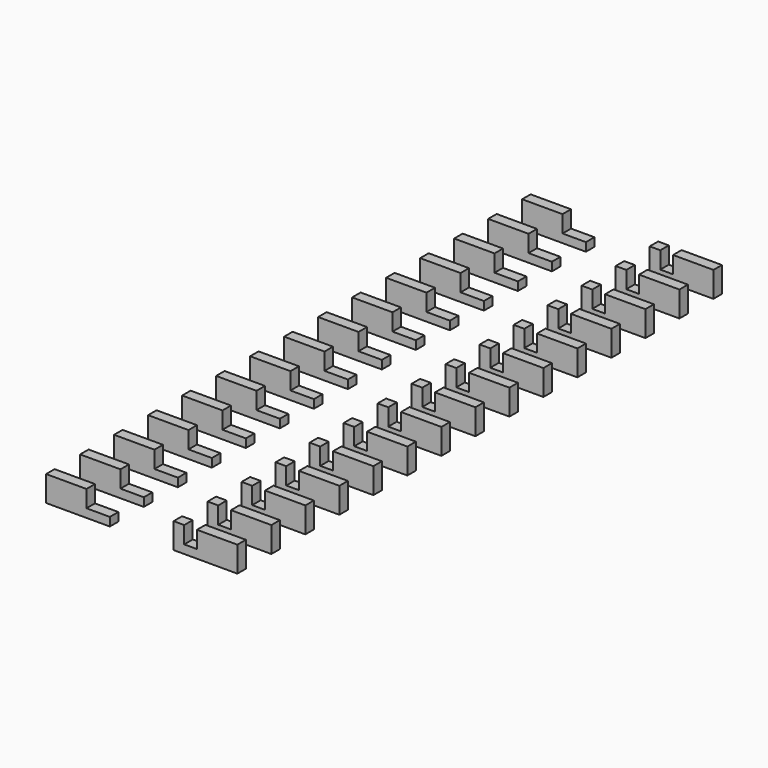
from build123d import *

# Parameters (mm, degrees)
BOX059_W         = 0.3
BOX059_H         = 20
BOX059_DEPTH     = 4
BOX061_W         = 0.1
BOX061_H         = 0.2
BOX061_DEPTH     = 3
ARRAY017_Y_COUNT = 15
ARRAY017_Y_PITCH = 1
BOX060_W         = 1
BOX060_H         = 16
BOX060_DEPTH     = 5.2
BOX055_W         = 1.5
BOX055_H         = 0.25
BOX055_DEPTH     = 0.6
ARRAY016_X_COUNT = 2
ARRAY016_X_PITCH = 3
ARRAY016_Y_COUNT = 15
ARRAY016_Y_PITCH = 1


with BuildPart() as cube:
    # Box059 → Box059 (new body)
    with BuildSketch(Plane(origin=(1, -10, 0.2), x_dir=(1, 0, 0), z_dir=(0, 0, 1))):
        with Locations((0.15, 10)):
            Rectangle(BOX059_W, BOX059_H)
    extrude(amount=BOX059_DEPTH)


with BuildPart() as clone030:
    # Clone030 base: copy of Cube
    add(cube.part)


with BuildPart() as clone030_1:
    # Clone030 placement: moved
    add(clone030.part.moved(Location((-2.3, 0, 0))))


with BuildPart() as array017:
    # Box061 → Box061 (new body)
    with BuildSketch(Plane(origin=(-0.4, -7.1, 2.4), x_dir=(1, 0, 0), z_dir=(0, 0, 1))):
        with Locations((0.05, 0.1)):
            Rectangle(BOX061_W, BOX061_H)
    extrude(amount=BOX061_DEPTH)

    # Array017 Y: Array017 ×15


with BuildPart() as array017_1:
    add(array017.part)
    with Locations(*[(0, i * ARRAY017_Y_PITCH, 0) for i in range(1, ARRAY017_Y_COUNT)]):
        add(array017.part)


with BuildPart() as cut012:
    # Box060 → Box060 (new body)
    with BuildSketch(Plane(origin=(-1.3, -8, 0.2), x_dir=(1, 0, 0), z_dir=(0, 0, 1))):
        with Locations((0.5, 8)):
            Rectangle(BOX060_W, BOX060_H)
    extrude(amount=BOX060_DEPTH)

    # Cut012: cut Array017
    add(array017_1.part, mode=Mode.SUBTRACT)


with BuildPart() as fusion045:
    # Fusion045 base: copy of Cube
    add(cube.part)

    # Fusion045: union Clone030, Cut012
    add(clone030_1.part)
    add(cut012.part)


with BuildPart() as pins:
    # Box055 → Box055 (new body)
    with BuildSketch(Plane(origin=(-2.25, -7.125, 0), x_dir=(1, 0, 0), z_dir=(0, 0, 1))):
        with Locations((0.75, 0.125)):
            Rectangle(BOX055_W, BOX055_H)
    extrude(amount=BOX055_DEPTH)

    # Array016 X: Pins ×2


with BuildPart() as pins_1:
    add(pins.part)
    with Locations(*[(i * ARRAY016_X_PITCH, 0, 0) for i in range(1, ARRAY016_X_COUNT)]):
        add(pins.part)

    # Array016 Y: Pins ×15


with BuildPart() as pins_2:
    add(pins_1.part)
    with Locations(*[(0, i * ARRAY016_Y_PITCH, 0) for i in range(1, ARRAY016_Y_COUNT)]):
        add(pins_1.part)

    # Cut013: cut Fusion045
    add(fusion045.part, mode=Mode.SUBTRACT)


solid = pins_2.part
